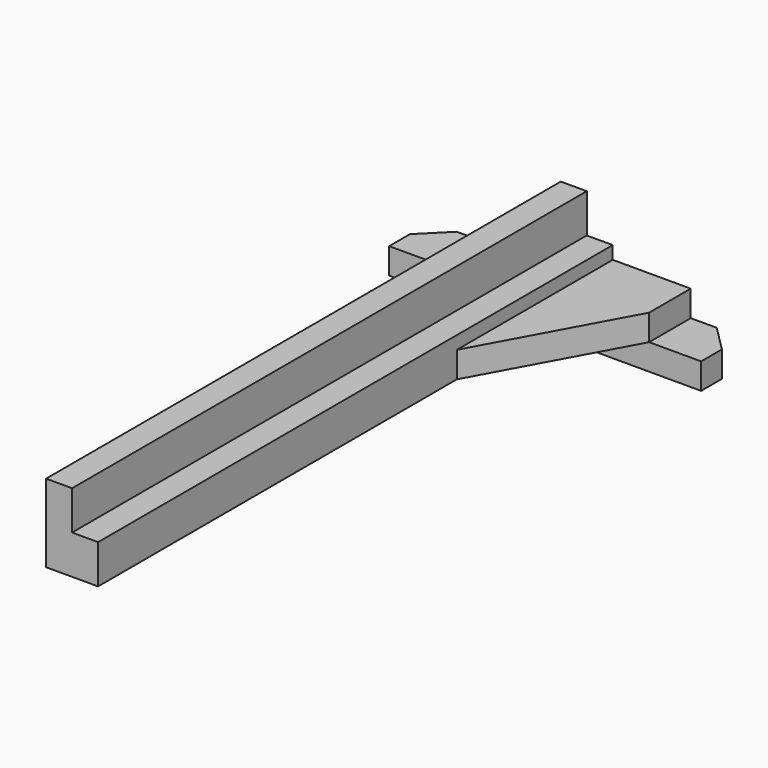
from build123d import *

# Parameters (mm, degrees)
F1_DEPTH = 20
F2_W     = 20
F2_H     = 495
F3_DEPTH = 60
F4_DEPTH = 30
F5_DEPTH = 20


with BuildPart() as f1:
    # F0 (on Top) → F1 (new body)
    with BuildSketch(Plane.XY):
        Polygon((120, 40), (20, 40), (0, 20), (0, 0), (120, 0), align=None)
        Polygon((220, 40), (120, 40), (120, 0), (240, 0), (240, 20), align=None)
    extrude(amount=-F1_DEPTH)

    # F2 (on Top) → F3 (join)
    with BuildSketch(Plane.XY):
        with Locations((110, -207.5)):
            Rectangle(F2_W, F2_H)
    extrude(amount=F3_DEPTH)

    # F2 (on Top) → F4 (join)
    with BuildSketch(Plane.XY):
        Polygon((140, 40), (120, 40), (120, -455), (140, -455), (140, -110), align=None)
    extrude(amount=F4_DEPTH)

    # F2 (on Top) → F5 (join)
    with BuildSketch(Plane.XY):
        Polygon((200, 40), (140, 40), (140, -110), (200, 0), align=None)
    extrude(amount=F5_DEPTH)


solid = f1.part
